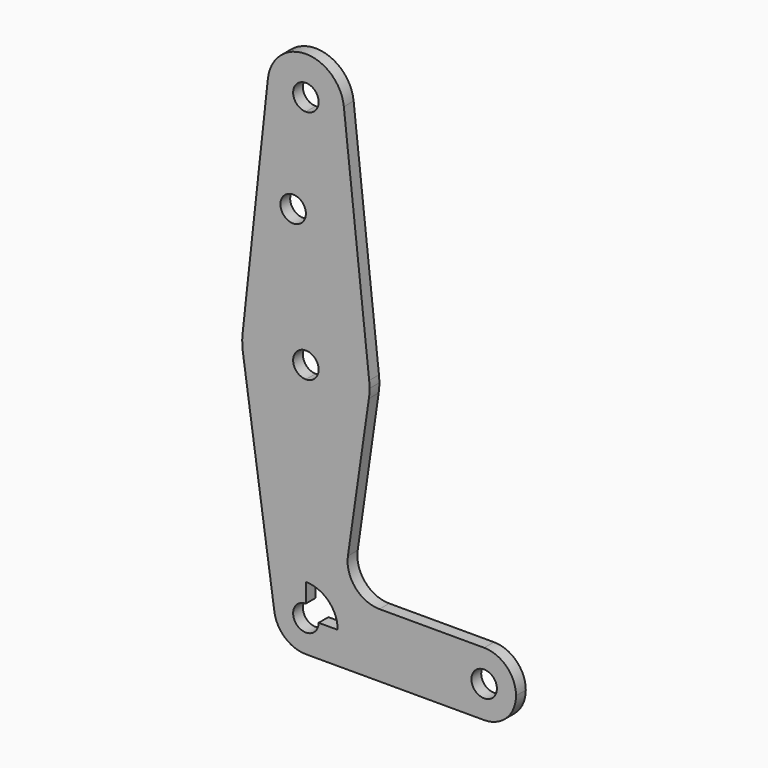
from build123d import *

# Parameters (mm, degrees)
F0_R     = 3.175
F1_DEPTH = 3.048


with BuildPart() as f1:
    # F0 (on Front) → F1 (new body)
    with BuildSketch(Plane.XZ):
        with BuildLine():
            ThreePointArc((3.175, 0), (-2.2450640303, -2.2450640303), (0, 3.175))
            Line((0, 3.175), (0, 7.9375))
            ThreePointArc((0, 7.9375), (-6.000186009, 5.1963135112), (-7.8560875915, -1.1339285714))
            ThreePointArc((-7.8560875915, -1.1339285714), (-5.1963135112, -6.000186009), (0, -7.9375))
            ThreePointArc((0, -7.9375), (5.6126600757, -5.6126600757), (7.9375, 0))
            Line((7.9375, 0), (3.175, 0))
        make_face()
        with BuildLine():
            ThreePointArc((-7.8560875915, -1.1339285714), (-6.000186009, 5.1963135112), (0, 7.9375))
            Line((0, 7.9375), (0, 39.6875))
            ThreePointArc((0, 39.6875), (-10.3926270225, 43.562127982), (-15.7121751829, 53.2946428571))
            Line((-15.7121751829, 53.2946428571), (-7.8560875915, -1.1339285714))
        make_face()
        with BuildLine():
            Line((0, 39.6875), (0, 7.9375))
            ThreePointArc((0, 7.9375), (5.6126600757, 5.6126600757), (7.9375, 0))
            Line((7.9375, 0), (36.5125, 0))
            ThreePointArc((36.5125, 0), (38.8373399243, 5.6126600757), (44.45, 7.9375))
            Line((44.45, 7.9375), (18.3455357436, 7.9375))
            ThreePointArc((18.3455357436, 7.9375), (12.335749437, 10.6830723871), (10.476878412, 17.0234428571))
            Line((10.476878412, 17.0234428571), (15.7121751829, 53.2946428571))
            ThreePointArc((15.7121751829, 53.2946428571), (10.3926270225, 43.562127982), (0, 39.6875))
        make_face()
        with BuildLine():
            Line((36.5125, 0), (7.9375, 0))
            ThreePointArc((7.9375, 0), (5.6126600757, -5.6126600757), (0, -7.9375))
            Line((0, -7.9375), (44.45, -7.9375))
            ThreePointArc((44.45, -7.9375), (38.8373399243, -5.6126600757), (36.5125, 0))
        make_face()
        with BuildLine():
            ThreePointArc((-15.7121751829, 53.2946428571), (-10.3926270225, 43.562127982), (0, 39.6875))
            Line((0, 39.6875), (0, 52.3875))
            ThreePointArc((0, 52.3875), (-3.175, 55.5625), (0, 58.7375))
            Line((0, 58.7375), (0, 71.4375))
            ThreePointArc((0, 71.4375), (-10.6011956271, 67.3790255586), (-15.7819589391, 57.2787159089))
            ThreePointArc((-15.7819589391, 57.2787159089), (-15.8725653423, 55.284481195), (-15.7121751829, 53.2946428571))
        make_face()
        with BuildLine():
            Line((0, 52.3875), (0, 39.6875))
            ThreePointArc((0, 39.6875), (10.3926270225, 43.562127982), (15.7121751829, 53.2946428571))
            ThreePointArc((15.7121751829, 53.2946428571), (15.8342414727, 54.4256526112), (15.875, 55.5625))
            ThreePointArc((15.875, 55.5625), (15.8517226608, 56.4218681903), (15.7819589056, 57.2787162162))
            ThreePointArc((15.7819589056, 57.2787162162), (10.601195512, 67.3790256618), (0, 71.4375))
            Line((0, 71.4375), (0, 58.7375))
            ThreePointArc((0, 58.7375), (2.2450640303, 57.8075640303), (3.175, 55.5625))
            ThreePointArc((3.175, 55.5625), (2.2450640303, 53.3174359697), (0, 52.3875))
        make_face()
        with BuildLine():
            ThreePointArc((44.45, 7.9375), (38.8373399243, 5.6126600757), (36.5125, 0))
            ThreePointArc((36.5125, 0), (38.8373399243, -5.6126600757), (44.45, -7.9375))
            ThreePointArc((44.45, -7.9375), (50.0626600757, -5.6126600757), (52.3875, 0))
            ThreePointArc((52.3875, 0), (50.0626600757, 5.6126600757), (44.45, 7.9375))
        make_face()
        with BuildLine():
            ThreePointArc((47.625, 0), (44.45, -3.175), (41.275, 0))
            ThreePointArc((41.275, 0), (44.45, 3.175), (47.625, 0))
        make_face(mode=Mode.SUBTRACT)
        with BuildLine():
            Line((-9.4691753434, 115.3297297297), (-15.7819589391, 57.2787159089))
            ThreePointArc((-15.7819589391, 57.2787159089), (-10.6011956271, 67.3790255586), (0, 71.4375))
            Line((0, 71.4375), (0, 88.7612230935))
            Line((0, 88.7612230935), (0, 104.775))
            ThreePointArc((0, 104.775), (-7.0899153971, 107.9392826928), (-9.4691753434, 115.3297297297))
        make_face()
        with Locations((-3.175, 88.7612230935)):
            Circle(F0_R, mode=Mode.SUBTRACT)
        with BuildLine():
            Line((0, 88.7612230935), (0, 71.4375))
            ThreePointArc((0, 71.4375), (10.601195512, 67.3790256618), (15.7819589056, 57.2787162162))
            Line((15.7819589056, 57.2787162162), (9.4691753434, 115.3297297297))
            ThreePointArc((9.4691753434, 115.3297297297), (9.5110335965, 114.8156209142), (9.525, 114.3))
            ThreePointArc((9.525, 114.3), (6.7351920908, 107.5648079092), (0, 104.775))
            Line((0, 104.775), (0, 88.7612230935))
        make_face()
        with BuildLine():
            ThreePointArc((9.4691753434, 115.3297297297), (0, 123.825), (-9.4691753434, 115.3297297297))
            ThreePointArc((-9.4691753434, 115.3297297297), (-7.0899153971, 107.9392826928), (0, 104.775))
            ThreePointArc((0, 104.775), (6.7351920908, 107.5648079092), (9.525, 114.3))
            ThreePointArc((9.525, 114.3), (9.5110335965, 114.8156209142), (9.4691753434, 115.3297297297))
        make_face()
        with BuildLine():
            ThreePointArc((3.175, 114.3), (2.2450640303, 112.0549359697), (0, 111.125))
            ThreePointArc((0, 111.125), (-2.2450640303, 116.5450640303), (3.175, 114.3))
        make_face(mode=Mode.SUBTRACT)
    extrude(amount=F1_DEPTH)


solid = f1.part
